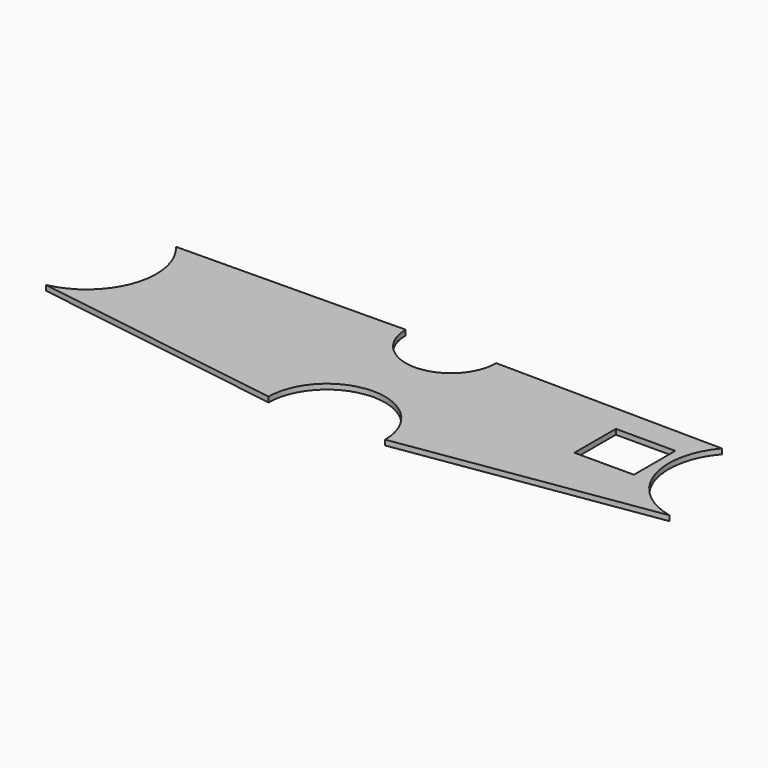
from build123d import *

# Parameters (mm, degrees)
SKETCH_W  = 23
SKETCH_H  = 20
PAD_DEPTH = 2


with BuildPart() as part:
    # Sketch → Pad (new body)
    with BuildSketch(Plane.XY):
        with BuildLine():
            Line((-105.496245, 53), (-17.5, 54))
            ThreePointArc((-17.5, 54), (0, 36.5), (17.5, 54))
            Line((17.5, 54), (105.496245, 53))
            ThreePointArc((105.496245, 53), (100.444225, 26.720902), (120.496245, 9))
            Line((120.496245, 9), (22.5, -6))
            ThreePointArc((22.5, -6), (0, 16.5), (-22.5, -6))
            Line((-22.5, -6), (-120.496245, 9))
            ThreePointArc((-120.496245, 9), (-100.444225, 26.720902), (-105.496245, 53))
        make_face()
        with Locations((83.996245, 33)):
            Rectangle(SKETCH_W, SKETCH_H, mode=Mode.SUBTRACT)
    extrude(amount=PAD_DEPTH)


solid = part.part
